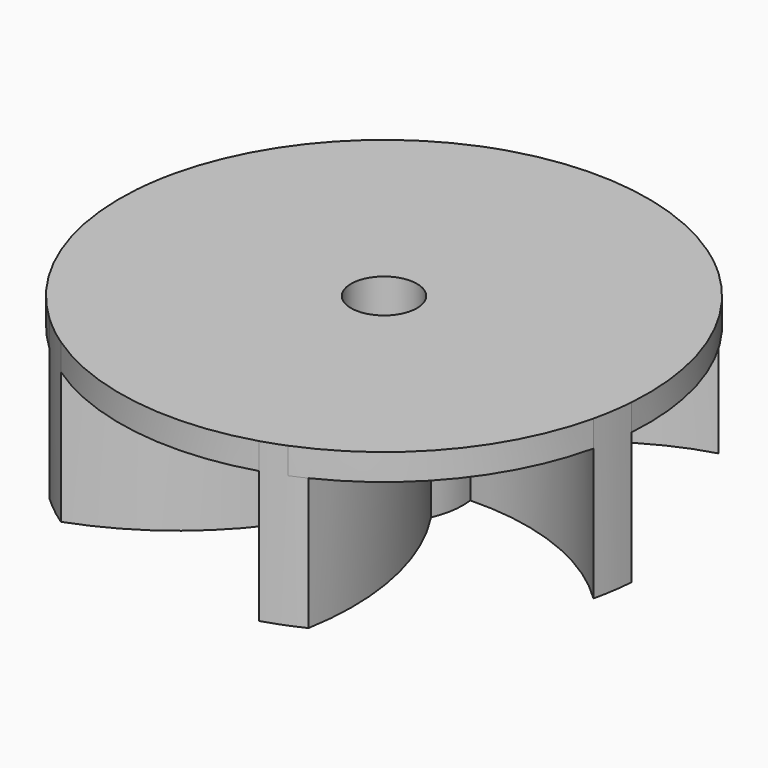
from build123d import *

# Parameters (mm, degrees)
F0_R     = 2.5
F1_DEPTH = 12
F2_R     = 20
F2_R_2   = 2.5
F3_DEPTH = 2


with BuildPart() as f1:
    # F0 (on Top) → F1 (new body)
    with BuildSketch(Plane.XY):
        with BuildLine():
            ThreePointArc((2.34375, 5.523299), (7.070963, 11.223483), (13.655, 14.613041))
            ThreePointArc((13.655, 14.613041), (12.491923, 15.618958), (11.255, 16.532543))
            ThreePointArc((11.255, 16.532543), (4.284864, 12.391676), (-0.65625, 5.964003))
            ThreePointArc((-0.65625, 5.964003), (-2.212928, 5.577002), (-3.611443, 4.791397))
            ThreePointArc((-3.611443, 4.791397), (-6.18434, 11.735376), (-5.827765, 19.132098))
            ThreePointArc((-5.827765, 19.132098), (-7.280453, 18.627802), (-8.690102, 18.013387))
            ThreePointArc((-8.690102, 18.013387), (-8.589074, 9.906639), (-5.493103, 2.413673))
            ThreePointArc((-5.493103, 2.413673), (-5.936289, 0.872049), (-5.955193, -0.731903))
            ThreePointArc((-5.955193, -0.731903), (-13.255303, 0.511892), (-19.482765, 4.519056))
            ThreePointArc((-19.482765, 4.519056), (-19.772376, 3.008844), (-19.945102, 1.480844))
            ThreePointArc((-19.945102, 1.480844), (-12.873938, -2.485037), (-4.836853, -3.550331))
            ThreePointArc((-4.836853, -3.550331), (-3.723361, -4.704953), (-2.34375, -5.523299))
            ThreePointArc((-2.34375, -5.523299), (-7.070963, -11.223483), (-13.655, -14.613041))
            ThreePointArc((-13.655, -14.613041), (-12.491923, -15.618958), (-11.255, -16.532543))
            ThreePointArc((-11.255, -16.532543), (-4.284864, -12.391676), (0.65625, -5.964003))
            ThreePointArc((0.65625, -5.964003), (2.212928, -5.577002), (3.611443, -4.791397))
            ThreePointArc((3.611443, -4.791397), (6.18434, -11.735376), (5.827765, -19.132098))
            ThreePointArc((5.827765, -19.132098), (7.280453, -18.627802), (8.690102, -18.013387))
            ThreePointArc((8.690102, -18.013387), (8.589074, -9.906639), (5.493103, -2.413673))
            ThreePointArc((5.493103, -2.413673), (5.936289, -0.872049), (5.955193, 0.731903))
            ThreePointArc((5.955193, 0.731903), (13.255303, -0.511892), (19.482765, -4.519056))
            ThreePointArc((19.482765, -4.519056), (19.772376, -3.008844), (19.945102, -1.480844))
            ThreePointArc((19.945102, -1.480844), (12.873938, 2.485037), (4.836853, 3.550331))
            ThreePointArc((4.836853, 3.550331), (3.723361, 4.704953), (2.34375, 5.523299))
        make_face()
        Circle(F0_R, mode=Mode.SUBTRACT)
    extrude(amount=F1_DEPTH)

    # F2 (on face) → F3 (join)
    with BuildSketch(Plane.XY.offset(12)):
        Circle(F2_R)
        Circle(F2_R_2, mode=Mode.SUBTRACT)
    extrude(amount=-F3_DEPTH)


solid = f1.part
